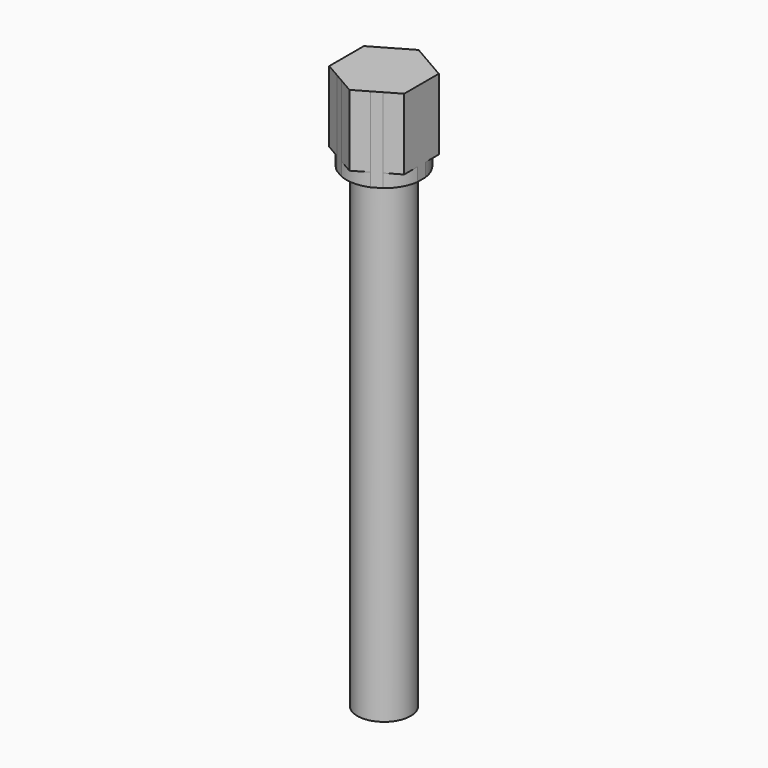
from build123d import *

# Parameters (mm, degrees)
F0_R     = 6
F1_DEPTH = 16
F2_DEPTH = 3
F3_DEPTH = 110


with BuildPart() as f1:
    # F0 (on Top) → F1 (new body)
    with BuildSketch(Plane.XY):
        with BuildLine():
            Line((8.425, -1.1266654339), (8.425, 1.1266654339))
            ThreePointArc((8.425, 1.1266654339), (7.3612159322, 4.25), (5.1882208873, 6.7329313099))
            Line((5.1882208873, 6.7329313099), (3.2367791127, 7.8595967438))
            ThreePointArc((3.2367791127, 7.8595967438), (0, 8.5), (-3.2367791127, 7.8595967438))
            Line((-3.2367791127, 7.8595967438), (-5.1882208873, 6.7329313099))
            ThreePointArc((-5.1882208873, 6.7329313099), (-7.3612159322, 4.25), (-8.425, 1.1266654339))
            Line((-8.425, 1.1266654339), (-8.425, -1.1266654339))
            ThreePointArc((-8.425, -1.1266654339), (-7.3612159322, -4.25), (-5.1882208873, -6.7329313099))
            Line((-5.1882208873, -6.7329313099), (-3.2367791127, -7.8595967438))
            ThreePointArc((-3.2367791127, -7.8595967438), (0, -8.5), (3.2367791127, -7.8595967438))
            Line((3.2367791127, -7.8595967438), (5.1882208873, -6.7329313099))
            ThreePointArc((5.1882208873, -6.7329313099), (7.3612159322, -4.25), (8.425, -1.1266654339))
        make_face()
        Circle(F0_R, mode=Mode.SUBTRACT)
        with BuildLine():
            ThreePointArc((-8.425, 1.1266654339), (-7.3612159322, 4.25), (-5.1882208873, 6.7329313099))
            Line((-5.1882208873, 6.7329313099), (-8.425, 4.8641760179))
            Line((-8.425, 4.8641760179), (-8.425, 1.1266654339))
        make_face()
        with BuildLine():
            Line((-8.425, -4.8641760179), (-5.1882208873, -6.7329313099))
            ThreePointArc((-5.1882208873, -6.7329313099), (-7.3612159322, -4.25), (-8.425, -1.1266654339))
            Line((-8.425, -1.1266654339), (-8.425, -4.8641760179))
        make_face()
        with BuildLine():
            Line((0, -9.7283520358), (3.2367791127, -7.8595967438))
            ThreePointArc((3.2367791127, -7.8595967438), (0, -8.5), (-3.2367791127, -7.8595967438))
            Line((-3.2367791127, -7.8595967438), (0, -9.7283520358))
        make_face()
        with BuildLine():
            Line((8.425, -4.8641760179), (8.425, -1.1266654339))
            ThreePointArc((8.425, -1.1266654339), (7.3612159322, -4.25), (5.1882208873, -6.7329313099))
            Line((5.1882208873, -6.7329313099), (8.425, -4.8641760179))
        make_face()
        with BuildLine():
            ThreePointArc((5.1882208873, 6.7329313099), (7.3612159322, 4.25), (8.425, 1.1266654339))
            Line((8.425, 1.1266654339), (8.425, 4.8641760179))
            Line((8.425, 4.8641760179), (5.1882208873, 6.7329313099))
        make_face()
        with BuildLine():
            ThreePointArc((-3.2367791127, 7.8595967438), (0, 8.5), (3.2367791127, 7.8595967438))
            Line((3.2367791127, 7.8595967438), (0, 9.7283520358))
            Line((0, 9.7283520358), (-3.2367791127, 7.8595967438))
        make_face()
        Circle(F0_R)
    extrude(amount=F1_DEPTH)

    # F0 (on Top) → F2 (join)
    with BuildSketch(Plane.XY):
        with BuildLine():
            Line((8.425, -1.1266654339), (8.425, 1.1266654339))
            ThreePointArc((8.425, 1.1266654339), (7.3612159322, 4.25), (5.1882208873, 6.7329313099))
            Line((5.1882208873, 6.7329313099), (3.2367791127, 7.8595967438))
            ThreePointArc((3.2367791127, 7.8595967438), (0, 8.5), (-3.2367791127, 7.8595967438))
            Line((-3.2367791127, 7.8595967438), (-5.1882208873, 6.7329313099))
            ThreePointArc((-5.1882208873, 6.7329313099), (-7.3612159322, 4.25), (-8.425, 1.1266654339))
            Line((-8.425, 1.1266654339), (-8.425, -1.1266654339))
            ThreePointArc((-8.425, -1.1266654339), (-7.3612159322, -4.25), (-5.1882208873, -6.7329313099))
            Line((-5.1882208873, -6.7329313099), (-3.2367791127, -7.8595967438))
            ThreePointArc((-3.2367791127, -7.8595967438), (0, -8.5), (3.2367791127, -7.8595967438))
            Line((3.2367791127, -7.8595967438), (5.1882208873, -6.7329313099))
            ThreePointArc((5.1882208873, -6.7329313099), (7.3612159322, -4.25), (8.425, -1.1266654339))
        make_face()
        Circle(F0_R, mode=Mode.SUBTRACT)
        Circle(F0_R)
    extrude(amount=-F2_DEPTH)

    # F0 (on Top) → F3 (join)
    with BuildSketch(Plane.XY):
        Circle(F0_R)
    extrude(amount=-F3_DEPTH)


solid = f1.part
